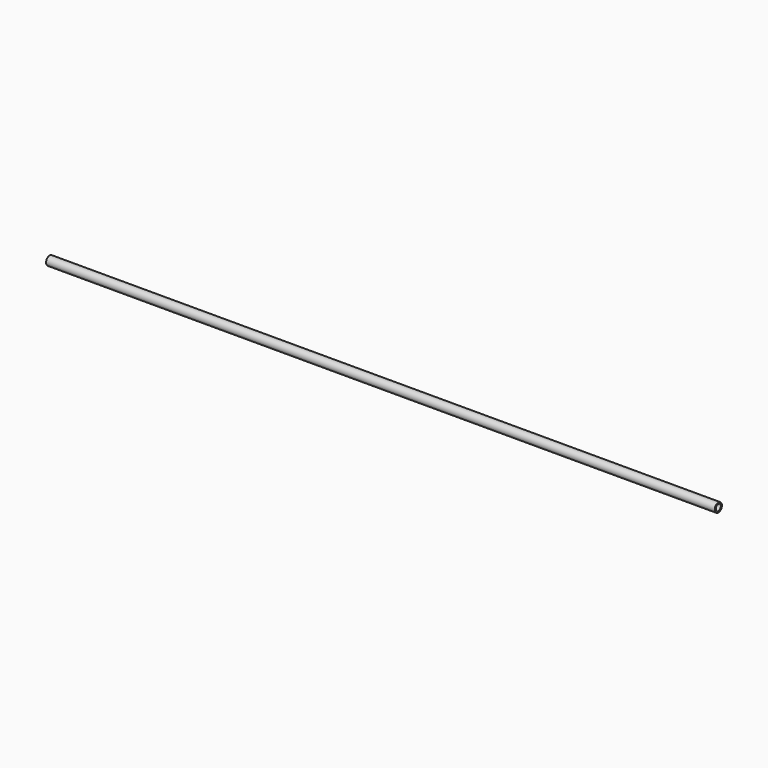
from build123d import *

# Parameters (mm, degrees)
F0_R     = 6.814317
F1_DEPTH = 1016
F2_R     = 4.770272
F3_DEPTH = 1016.001


with BuildPart() as f1:
    # F0 (on Right) → F1 (new body)
    with BuildSketch(Plane.YZ):
        Circle(F0_R)
    extrude(amount=-F1_DEPTH)

    # F2 (on face) → F3 (cut, through all)
    with BuildSketch(Plane.YZ):
        Circle(F2_R)
    extrude(amount=-F3_DEPTH, mode=Mode.SUBTRACT)


solid = f1.part
